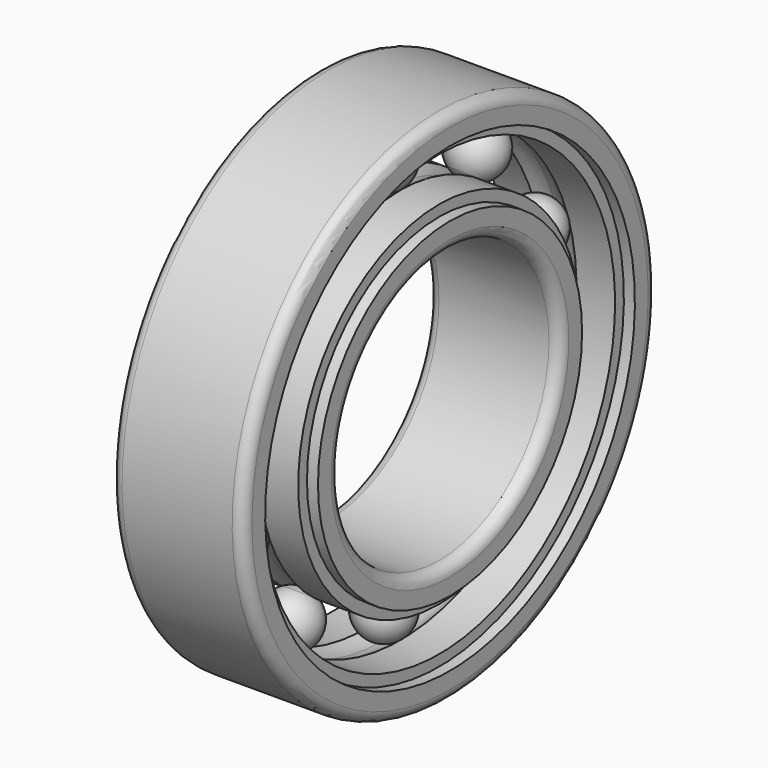
from build123d import *

# Parameters (mm, degrees)
F3_COUNT = 10


with BuildPart() as f1:
    # F0 (on Front) → F1 (revolve)
    with BuildSketch(Plane.XZ):
        with BuildLine():
            ThreePointArc((0, 20.5), (0.790569415, 20.3717082451), (1.5, 20))
            Line((1.5, 20), (5, 20))
            Line((5, 20), (5, 20.5381773412))
            Line((5, 20.5381773412), (5, 21))
            Line((5, 21), (6, 21))
            Line((6, 21), (6, 22.5))
            ThreePointArc((6, 22.5), (5.7071067812, 23.2071067812), (5, 23.5))
            Line((5, 23.5), (0, 23.5))
            Line((0, 23.5), (-5, 23.5))
            ThreePointArc((-5, 23.5), (-5.7071067812, 23.2071067812), (-6, 22.5))
            Line((-6, 22.5), (-6, 21))
            Line((-6, 21), (-5, 21))
            Line((-5, 21), (-5, 20))
            Line((-5, 20), (-1.5, 20))
            ThreePointArc((-1.5, 20), (-0.790569415, 20.3717082451), (0, 20.5))
        make_face()
    revolve(axis=Axis((0.6651170552, 0, 0), (1, 0, 0)))


with BuildPart() as f1b:
    # F0 (on Front) → F1, piece 2 (revolve)
    with BuildSketch(Plane.XZ):
        with BuildLine():
            Line((-5, 12.5), (0, 12.5))
            Line((0, 12.5), (5, 12.5))
            ThreePointArc((5, 12.5), (5.7071067812, 12.7928932188), (6, 13.5))
            Line((6, 13.5), (6, 15))
            Line((6, 15), (5, 15))
            Line((5, 15), (5, 16))
            Line((5, 16), (1.5, 16))
            ThreePointArc((1.5, 16), (0.790569415, 15.6282917549), (0, 15.5))
            ThreePointArc((0, 15.5), (-0.790569415, 15.6282917549), (-1.5, 16))
            Line((-1.5, 16), (-5, 16))
            Line((-5, 16), (-5, 15))
            Line((-5, 15), (-6, 15))
            Line((-6, 15), (-6, 13.5))
            ThreePointArc((-6, 13.5), (-5.7071067812, 12.7928932188), (-5, 12.5))
        make_face()
    revolve(axis=Axis((0.6651170552, 0, 0), (1, 0, 0)))


with BuildPart() as f2:
    # F0 (on Front) → F2 (revolve)
    with BuildSketch(Plane.XZ):
        with BuildLine():
            ThreePointArc((0, 15.5), (0.790569415, 15.6282917549), (1.5, 16))
            ThreePointArc((1.5, 16), (2.5, 18), (1.5, 20))
            ThreePointArc((1.5, 20), (0.790569415, 20.3717082451), (0, 20.5))
            Line((0, 20.5), (0, 15.5))
        make_face()
    revolve(axis=Axis((0, 0, 18), (0, 0, -1)))


with BuildPart() as f3_1:
    # F3: instance of F2
    add(f2.part.rotate(Axis((0.6651170552, 0, 0), (1, 0, 0)), 1 * 360 / F3_COUNT))


with BuildPart() as f3_2:
    # F3: instance of F2
    add(f2.part.rotate(Axis((0.6651170552, 0, 0), (1, 0, 0)), 2 * 360 / F3_COUNT))


with BuildPart() as f3_3:
    # F3: instance of F2
    add(f2.part.rotate(Axis((0.6651170552, 0, 0), (1, 0, 0)), 3 * 360 / F3_COUNT))


with BuildPart() as f3_4:
    # F3: instance of F2
    add(f2.part.rotate(Axis((0.6651170552, 0, 0), (1, 0, 0)), 4 * 360 / F3_COUNT))


with BuildPart() as f3_5:
    # F3: instance of F2
    add(f2.part.rotate(Axis((0.6651170552, 0, 0), (1, 0, 0)), 5 * 360 / F3_COUNT))


with BuildPart() as f3_6:
    # F3: instance of F2
    add(f2.part.rotate(Axis((0.6651170552, 0, 0), (1, 0, 0)), 6 * 360 / F3_COUNT))


with BuildPart() as f3_7:
    # F3: instance of F2
    add(f2.part.rotate(Axis((0.6651170552, 0, 0), (1, 0, 0)), 7 * 360 / F3_COUNT))


with BuildPart() as f3_8:
    # F3: instance of F2
    add(f2.part.rotate(Axis((0.6651170552, 0, 0), (1, 0, 0)), 8 * 360 / F3_COUNT))


with BuildPart() as f3_9:
    # F3: instance of F2
    add(f2.part.rotate(Axis((0.6651170552, 0, 0), (1, 0, 0)), 9 * 360 / F3_COUNT))


solid = Compound([f1.part, f1b.part, f2.part, f3_1.part, f3_2.part, f3_3.part, f3_4.part, f3_5.part, f3_6.part, f3_7.part, f3_8.part, f3_9.part])
